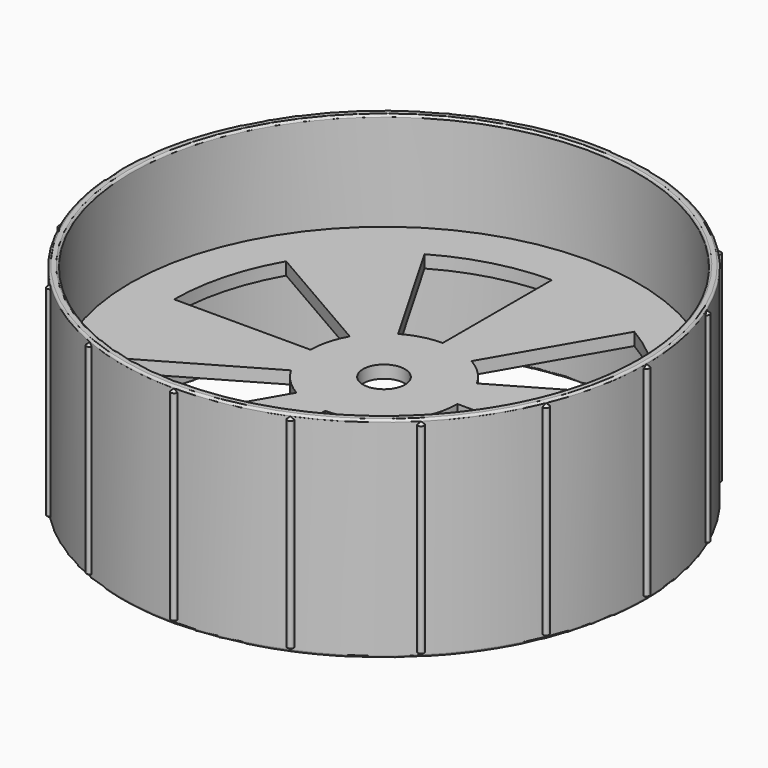
from build123d import *

# Parameters (mm, degrees)
F3_ANGLE_BACK = 120
F3_ANGLE      = 240
F4_COUNT      = 16
F5_R          = 24.9
F6_DEPTH      = 0.6
F7_R          = 2
F8_DEPTH      = 12.5


with BuildPart() as f1:
    # F0 (on Front) → F1 (revolve)
    with BuildSketch(Plane.XZ):
        with BuildLine():
            ThreePointArc((-24.8, 10), (-24.9414213562, 9.9414213562), (-25, 9.8))
            Line((-25, 9.8), (-25, -9.8))
            ThreePointArc((-25, -9.8), (-24.9414213562, -9.9414213562), (-24.8, -10))
            Line((-24.8, -10), (-24.4, -10))
            ThreePointArc((-24.4, -10), (-24.2585786438, -9.9414213562), (-24.2, -9.8))
            Line((-24.2, -9.8), (-24.2, 9.8))
            ThreePointArc((-24.2, 9.8), (-24.2585786438, 9.9414213562), (-24.4, 10))
            Line((-24.4, 10), (-24.8, 10))
        make_face()
    revolve(axis=Axis((0, 0, -2.706727013), (0, 0, -1)))

    # F2 (on Front) → F3 (revolve)
    with BuildSketch(Plane.XZ, mode=Mode.PRIVATE) as f3_sk:
        Polygon((-25, -9.8), (-25, 9.8), (-25.3022530806, 9.5380017647), (-25.3022530806, -9.5380017647), align=None)
    revolve(f3_sk.sketch.rotate(Axis((-25, 0, 0), (0, 0, -1)), -F3_ANGLE_BACK), axis=Axis((-25, 0, 0), (0, 0, -1)), revolution_arc=F3_ANGLE)

    # F4: F1 ×16 about axis
    f4_axis = Axis((0, 0, -2.706727013), (0, 0, -1))


with BuildPart() as f1_1:
    add(f1.part)
    for i in range(1, F4_COUNT):
        add(f1.part.rotate(f4_axis, i * 360 / F4_COUNT))

    # F5 (on Top) → F6 (join, symmetric)
    with BuildSketch(Plane.XY):
        Circle(F5_R)
    extrude(amount=F6_DEPTH, both=True)

    # F7 (on Top) → F8 (cut, symmetric)
    with BuildSketch(Plane.XY):
        with BuildLine():
            ThreePointArc((17.3205080757, 10), (14.1421356237, 14.1421356237), (10, 17.3205080757))
            Line((10, 17.3205080757), (3.5, 6.0621778265))
            ThreePointArc((3.5, 6.0621778265), (4.9497474683, 4.9497474683), (6.0621778265, 3.5))
            Line((6.0621778265, 3.5), (17.3205080757, 10))
        make_face()
        with BuildLine():
            ThreePointArc((-17.3205080757, 10), (-19.3185165258, 5.1763809021), (-20, 0))
            Line((-20, 0), (-7, 0))
            ThreePointArc((-7, 0), (-6.761480784, 1.8117333157), (-6.0621778265, 3.5))
            Line((-6.0621778265, 3.5), (-17.3205080757, 10))
        make_face()
        with BuildLine():
            ThreePointArc((0, -20), (5.1763809021, -19.3185165258), (10, -17.3205080757))
            Line((10, -17.3205080757), (3.5, -6.0621778265))
            ThreePointArc((3.5, -6.0621778265), (1.8117333157, -6.761480784), (0, -7))
            Line((0, -7), (0, -20))
        make_face()
        with BuildLine():
            ThreePointArc((0, 20), (-5.1763809021, 19.3185165258), (-10, 17.3205080757))
            Line((-10, 17.3205080757), (-3.5, 6.0621778265))
            ThreePointArc((-3.5, 6.0621778265), (-1.8117333157, 6.761480784), (0, 7))
            Line((0, 7), (0, 20))
        make_face()
        with BuildLine():
            ThreePointArc((-17.3205080757, -10), (-14.1421356237, -14.1421356237), (-10, -17.3205080757))
            Line((-10, -17.3205080757), (-3.5, -6.0621778265))
            ThreePointArc((-3.5, -6.0621778265), (-4.9497474683, -4.9497474683), (-6.0621778265, -3.5))
            Line((-6.0621778265, -3.5), (-17.3205080757, -10))
        make_face()
        with BuildLine():
            ThreePointArc((17.3205080757, -10), (19.3185165258, -5.1763809021), (20, 0))
            Line((20, 0), (7, 0))
            ThreePointArc((7, 0), (6.761480784, -1.8117333157), (6.0621778265, -3.5))
            Line((6.0621778265, -3.5), (17.3205080757, -10))
        make_face()
        Circle(F7_R)
    extrude(amount=F8_DEPTH, both=True, mode=Mode.SUBTRACT)


solid = f1_1.part
